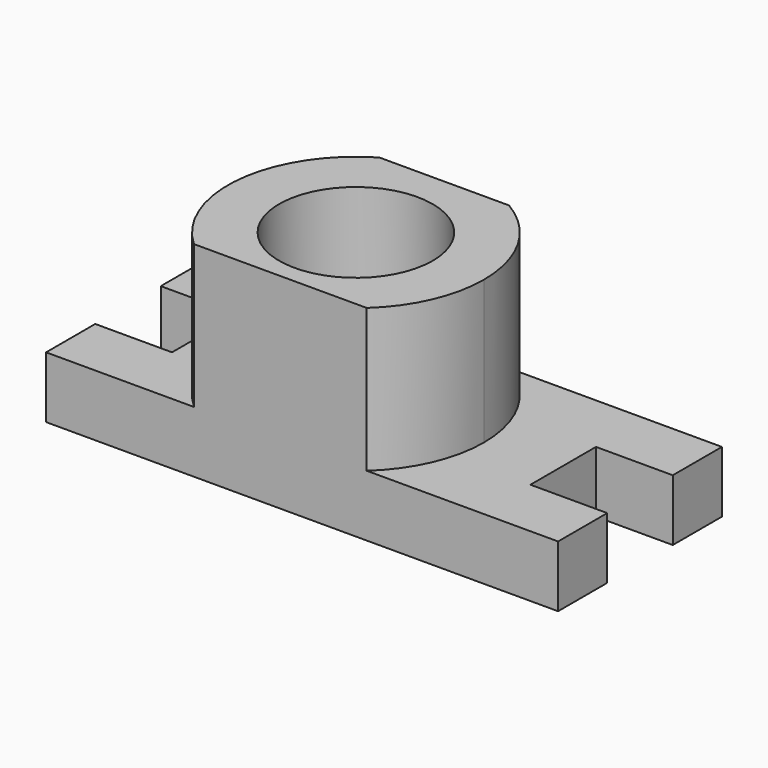
from build123d import *

# Parameters (mm, degrees)
F0_W     = 100
F0_H     = 40
F1_DEPTH = 12
F2_W     = 16
F2_H     = 12
F3_DEPTH = 15
F4_W     = 16
F4_H     = 12
F5_DEPTH = 15
F6_R     = 15
F7_DEPTH = 40


with BuildPart() as f1:
    # F0 (on Top) → F1 (new body)
    with BuildSketch(Plane.XY):
        with Locations((50, 20)):
            Rectangle(F0_W, F0_H)
    extrude(amount=F1_DEPTH)

    # F2 (on face) → F3 (cut)
    with BuildSketch(Plane.YZ.offset(100)):
        with Locations((20, 6)):
            Rectangle(F2_W, F2_H)
    extrude(amount=-F3_DEPTH, mode=Mode.SUBTRACT)

    # F4 (on face) → F5 (cut)
    with BuildSketch(Plane(origin=(0, 0, 0), x_dir=(0, -1, 0), z_dir=(-1, 0, 0))):
        with Locations((-20, 6)):
            Rectangle(F4_W, F4_H)
    extrude(amount=-F5_DEPTH, mode=Mode.SUBTRACT)

    # F6 (on face) → F7 (join)
    with BuildSketch(Plane(origin=(0, 0, 0), x_dir=(1, 0, 0), z_dir=(0, 0, -1))):
        with BuildLine():
            ThreePointArc((58.422061, -40), (67.454528, -30.862784), (70.756012, -18.446086))
            ThreePointArc((70.756012, -18.446086), (68.634577, -8.367828), (62.63031, 0))
            Line((62.63031, 0), (28.881715, 0))
            ThreePointArc((28.881715, 0), (20.893229, -21.061805), (33.089963, -40))
            Line((33.089963, -40), (58.422061, -40))
        make_face()
        with Locations((45.756012, -18.446086)):
            Circle(F6_R, mode=Mode.SUBTRACT)
    extrude(amount=-F7_DEPTH)


solid = f1.part
